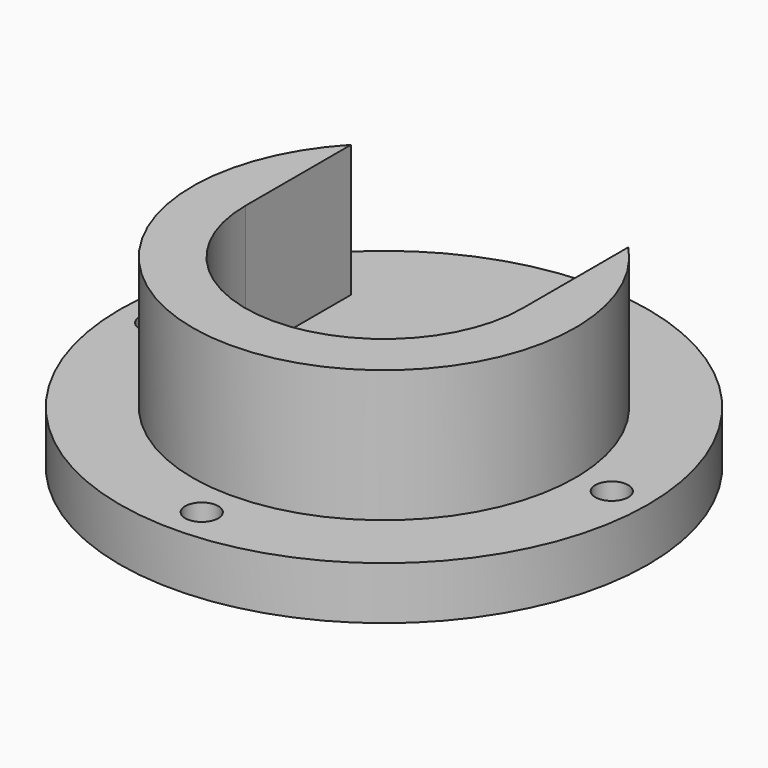
from build123d import *

# Parameters (mm, degrees)
F0_R     = 25.4
F1_DEPTH = 5.08
F3_DEPTH = 12.7
F4_R     = 1.5875
F5_DEPTH = 25.4


with BuildPart() as f1:
    # F0 (on Top) → F1 (new body)
    with BuildSketch(Plane.XY):
        Circle(F0_R)
    extrude(amount=F1_DEPTH)

    # F2 (on face) → F3 (join)
    with BuildSketch(Plane.XY.offset(5.08)):
        with BuildLine():
            ThreePointArc((13.335, 0), (0, -13.335), (-13.335, 0))
            Line((-13.335, 0), (-13.335, 12.7))
            ThreePointArc((-13.335, 12.7), (0, -18.415), (13.335, 12.7))
            Line((13.335, 12.7), (13.335, 0))
        make_face()
    extrude(amount=F3_DEPTH)

    # F4 (on face) → F5 (cut)
    with BuildSketch(Plane.XY.offset(5.08)):
        with Locations((-21.9075, 0)):
            Circle(F4_R)
        with Locations((21.9075, 0)):
            Circle(F4_R)
        with Locations((0, -21.9075)):
            Circle(F4_R)
    extrude(amount=-F5_DEPTH, mode=Mode.SUBTRACT)


solid = f1.part
